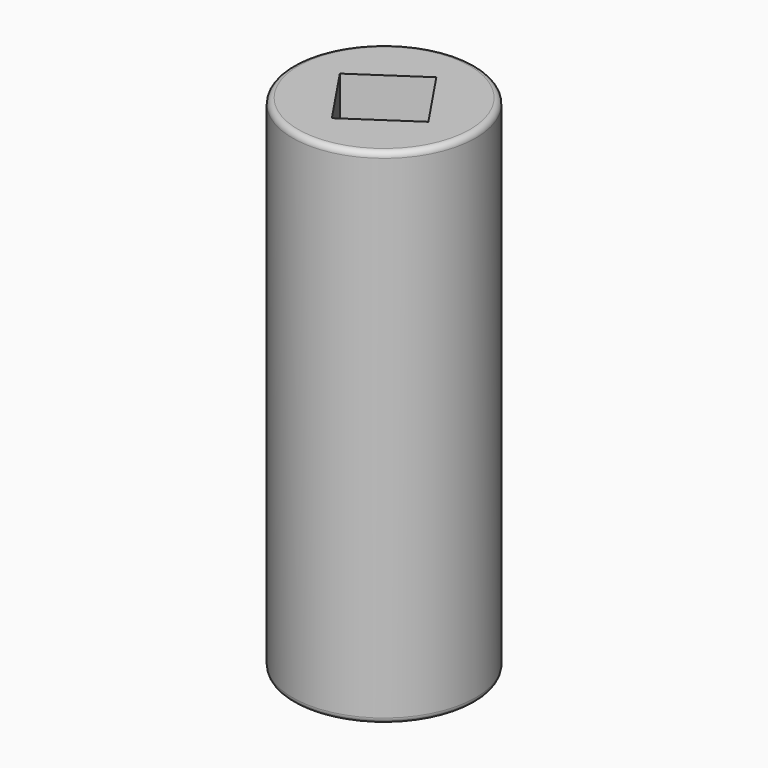
from build123d import *

# Parameters (mm, degrees)
F0_R     = 4
F0_R_2   = 1.875
F1_DEPTH = 10
F2_R     = 4
F3_DEPTH = 2
F4_R     = 0.75
F5_DEPTH = 1.5
F6_SIZE  = 0.25
F7_R     = 4
F8_DEPTH = 10
F9_R     = 0.25
F10_R    = 0.25


with BuildPart() as f1:
    # F0 (on Top) → F1 (new body)
    with BuildSketch(Plane.XY):
        Circle(F0_R)
        Circle(F0_R_2, mode=Mode.SUBTRACT)
    extrude(amount=F1_DEPTH)

    # F2 (on face) → F3 (join)
    with BuildSketch(Plane.XY.offset(10)):
        Circle(F2_R)
    extrude(amount=F3_DEPTH)

    # F4 (on face) → F5 (join)
    with BuildSketch(Plane.XY.offset(12)):
        Circle(F4_R)
    extrude(amount=F5_DEPTH)

    # F6
    f6_edges = [f1.edges().sort_by_distance(p)[0] for p in [
        (-0.75, 0, 13.5),
    ]]
    chamfer(f6_edges, length=F6_SIZE)

    # F7 (on face) → F8 (join)
    with BuildSketch(Plane.XY.offset(12)):
        Circle(F7_R)
        Polygon((-0.447693, -2.290151), (-2.290151, 0.447693), (0.447693, 2.290151), (2.290151, -0.447693), align=None, mode=Mode.SUBTRACT)
    extrude(amount=F8_DEPTH)

    # F9
    f9_edges = [f1.edges().sort_by_distance(p)[0] for p in [
        (-4, 0, 22),
    ]]
    fillet(f9_edges, radius=F9_R)

    # F10
    f10_edges = [f1.edges().sort_by_distance(p)[0] for p in [
        (-4, 0, 0),
    ]]
    fillet(f10_edges, radius=F10_R)


solid = f1.part
